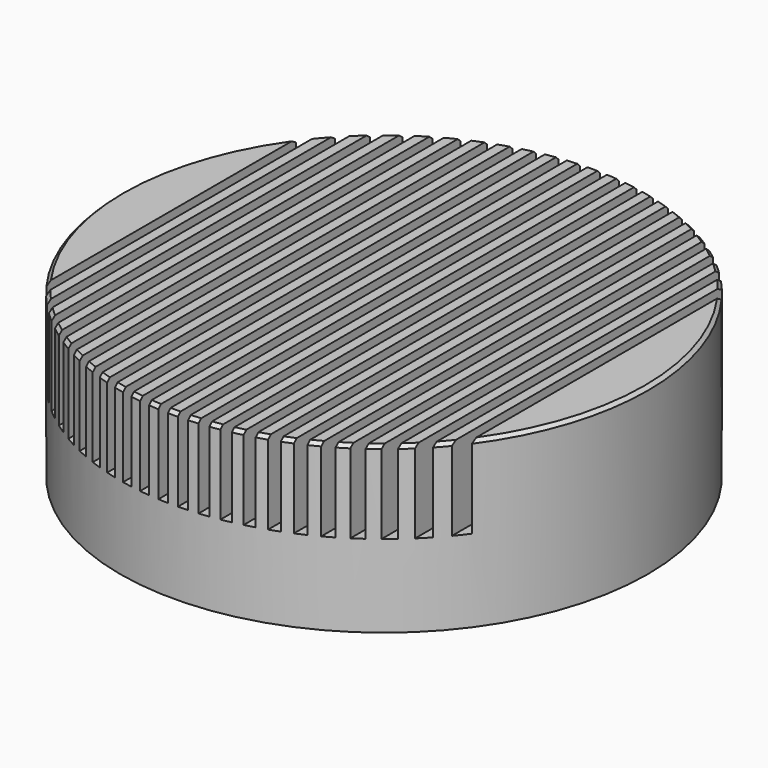
from build123d import *

# Parameters (mm, degrees)
F0_R          = 80
F1_DEPTH      = 50
F2_R          = 4
F3_DEPTH      = 25
F4_SIZE       = 1
F5_W          = 3
F5_H          = 35
F6_DEPTH      = 100
F6_DEPTH_BACK = 100


with BuildPart() as f1:
    # F0 (on Top) → F1 (new body)
    with BuildSketch(Plane.XY):
        Circle(F0_R)
    extrude(amount=F1_DEPTH)

    # F2 (on Top) → F3 (cut)
    with BuildSketch(Plane.XY):
        with Locations((-49.497475, 49.497475)):
            Circle(F2_R)
        with Locations((-49.497475, -49.497475)):
            Circle(F2_R)
        with Locations((49.497475, 49.497475)):
            Circle(F2_R)
        with Locations((49.497475, -49.497475)):
            Circle(F2_R)
    extrude(amount=F3_DEPTH, mode=Mode.SUBTRACT)

    # F4
    f4_edges = [f1.edges().sort_by_distance(p)[0] for p in [
        (-80, 0, 50),
    ]]
    chamfer(f4_edges, length=F4_SIZE)

    # F5 (on Front) → F6 (cut, two sides)
    with BuildSketch(Plane.XZ) as f6_sk:
        with Locations((-63, 42.5)):
            Rectangle(F5_W, F5_H)
        with Locations((-57, 42.5)):
            Rectangle(F5_W, F5_H)
        with Locations((-51, 42.5)):
            Rectangle(F5_W, F5_H)
        with Locations((-45, 42.5)):
            Rectangle(F5_W, F5_H)
        with Locations((-39, 42.5)):
            Rectangle(F5_W, F5_H)
        with Locations((-33, 42.5)):
            Rectangle(F5_W, F5_H)
        with Locations((-27, 42.5)):
            Rectangle(F5_W, F5_H)
        with Locations((-21, 42.5)):
            Rectangle(F5_W, F5_H)
        with Locations((-15, 42.5)):
            Rectangle(F5_W, F5_H)
        with Locations((-9, 42.5)):
            Rectangle(F5_W, F5_H)
        with Locations((-3, 42.5)):
            Rectangle(F5_W, F5_H)
        with Locations((3, 42.5)):
            Rectangle(F5_W, F5_H)
        with Locations((9, 42.5)):
            Rectangle(F5_W, F5_H)
        with Locations((15, 42.5)):
            Rectangle(F5_W, F5_H)
        with Locations((21, 42.5)):
            Rectangle(F5_W, F5_H)
        with Locations((27, 42.5)):
            Rectangle(F5_W, F5_H)
        with Locations((33, 42.5)):
            Rectangle(F5_W, F5_H)
        with Locations((39, 42.5)):
            Rectangle(F5_W, F5_H)
        with Locations((45, 42.5)):
            Rectangle(F5_W, F5_H)
        with Locations((51, 42.5)):
            Rectangle(F5_W, F5_H)
        with Locations((57, 42.5)):
            Rectangle(F5_W, F5_H)
        with Locations((63, 42.5)):
            Rectangle(F5_W, F5_H)
    extrude(amount=F6_DEPTH, mode=Mode.SUBTRACT)
    extrude(f6_sk.sketch, amount=-F6_DEPTH_BACK, mode=Mode.SUBTRACT)


solid = f1.part
